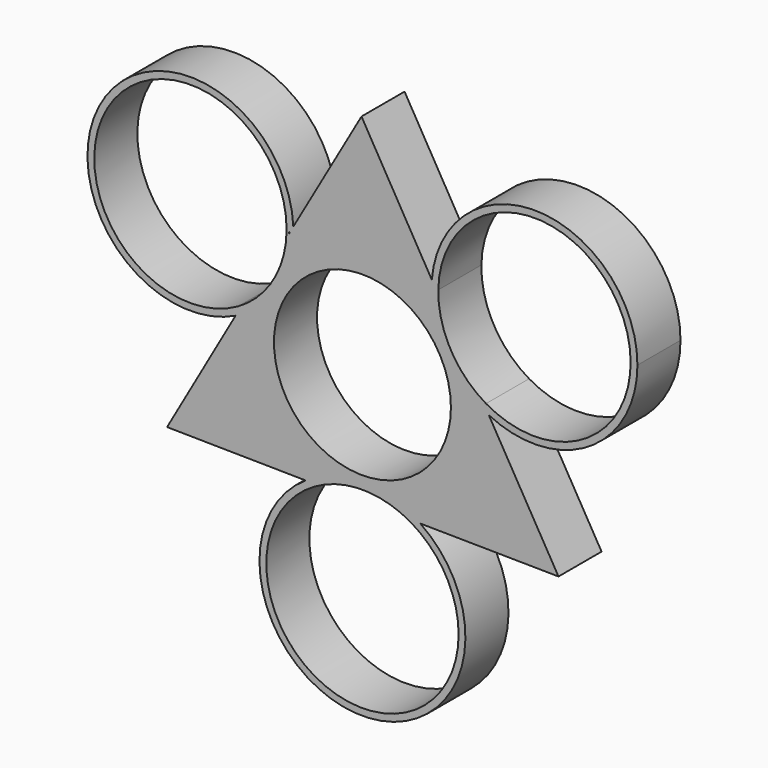
from build123d import *

# Parameters (mm, degrees)
F2_DEPTH = 7
F0_R     = 11.5
F3_DEPTH = 26.416


with BuildPart() as f2:
    # F1 (on Front) → F2 (new body)
    with BuildSketch(Plane.XZ):
        with BuildLine():
            ThreePointArc((-9.8594943471, 13.4371291696), (-9.8598798703, 13.3389562022), (-9.8610364161, 13.2407892906))
            Line((-9.8610364161, 13.2407892906), (-9.5237098666, 13.2354901845))
            Line((-9.5237098666, 13.2354901845), (-9.4420993874, 13.234208155))
            Line((-9.4420993874, 13.234208155), (-8.9874716534, 14.0291067183))
            ThreePointArc((-8.9874716534, 14.0291067183), (-33.8655402549, 20.2761595034), (-16.4893494105, 1.4078803666))
            Line((-16.4893494105, 1.4078803666), (-15.9845189072, 2.2945213217))
            Line((-15.9845189072, 2.2945213217), (-16.1520543214, 2.5873509079))
            ThreePointArc((-16.1520543214, 2.5873509079), (-33.1725189083, 19.7083730525), (-9.8594943471, 13.4371291696))
        make_face()
        with BuildLine():
            Line((-15.7125081445, 1.8190827434), (-15.9845189072, 2.2945213217))
            Line((-15.9845189072, 2.2945213217), (-16.4893494105, 1.4078803666))
            ThreePointArc((-16.4893494105, 1.4078803666), (-16.0975525686, 1.6071032397), (-15.7125081445, 1.8190827434))
        make_face()
        with BuildLine():
            Line((-8.9874716534, 14.0291067183), (-9.4420993874, 13.234208155))
            Line((-9.4420993874, 13.234208155), (-8.9760259484, 13.2268865476))
            ThreePointArc((-8.9760259484, 13.2268865476), (-8.974787508, 13.3320046163), (-8.9743746861, 13.4371291696))
            ThreePointArc((-8.9743746861, 13.4371291696), (-8.9776493285, 13.7331903747), (-8.9874716534, 14.0291067183))
        make_face()
        with BuildLine():
            Line((-6.6469862026, -14.026241978), (-15.7125081445, 1.8190827434))
            ThreePointArc((-15.7125081445, 1.8190827434), (-16.0975525686, 1.6071032397), (-16.4893494105, 1.4078803666))
            Line((-16.4893494105, 1.4078803666), (-25.3977489889, -14.2380678461))
            Line((-25.3977489889, -14.2380678461), (-7.3951647118, -14.4875430354))
            ThreePointArc((-7.3951647118, -14.4875430354), (-7.0248630052, -14.2507495292), (-6.6469862026, -14.026241978))
        make_face()
        with BuildLine():
            ThreePointArc((-8.9743746861, 13.4371291696), (-8.974787508, 13.3320046163), (-8.9760259484, 13.2268865476))
            Line((-8.9760259484, 13.2268865476), (8.9760259484, 12.9448754613))
            ThreePointArc((8.9760259484, 12.9448754613), (8.989763273, 13.3762864413), (9.0174033464, 13.8070301865))
            Line((9.0174033464, 13.8070301865), (-0.1233932709, 29.5275962356))
            Line((-0.1233932709, 29.5275962356), (-8.9874716534, 14.0291067183))
            ThreePointArc((-8.9874716534, 14.0291067183), (-8.9776493285, 13.7331903747), (-8.9743746861, 13.4371291696))
        make_face()
        with BuildLine():
            Line((-6.3749754398, -14.5016805563), (-6.6469862026, -14.026241978))
            ThreePointArc((-6.6469862026, -14.026241978), (-7.0248630052, -14.2507495292), (-7.3951647118, -14.4875430354))
            Line((-7.3951647118, -14.4875430354), (-6.3749754398, -14.5016805563))
        make_face()
        with BuildLine():
            ThreePointArc((9.0174033464, 13.8070301865), (8.989763273, 13.3762864413), (8.9760259484, 12.9448754613))
            Line((8.9760259484, 12.9448754613), (9.5237098666, 12.9362718244))
            Line((9.5237098666, 12.9362718244), (9.0174033464, 13.8070301865))
        make_face()
        with BuildLine():
            Line((-6.2074400257, -14.7945101426), (-6.3749754398, -14.5016805563))
            Line((-6.3749754398, -14.5016805563), (-7.3951647118, -14.4875430354))
            ThreePointArc((-7.3951647118, -14.4875430354), (-6.3315189236, -37.4372225794), (13.385119661, -25.6442884042))
            ThreePointArc((13.385119661, -25.6442884042), (11.825746284, -19.3742682156), (7.5109617661, -14.5651692295))
            Line((7.5109617661, -14.5651692295), (6.4622937408, -14.5520938009))
            Line((6.4622937408, -14.5520938009), (6.2924635872, -14.8435985187))
            ThreePointArc((6.2924635872, -14.8435985187), (10.8375687965, -19.415556384), (12.5, -25.6442884042))
            ThreePointArc((12.5, -25.6442884042), (-6.2712438829, -36.4573129654), (-6.2074400257, -14.7945101426))
        make_face()
        with BuildLine():
            ThreePointArc((7.5109617661, -14.5651692295), (7.1286450726, -14.3153940288), (6.7380302462, -14.0788062811))
            Line((6.7380302462, -14.0788062811), (6.4622937408, -14.5520938009))
            Line((6.4622937408, -14.5520938009), (7.5109617661, -14.5651692295))
        make_face()
        with BuildLine():
            Line((15.6214641009, 1.1691507162), (6.7380302462, -14.0788062811))
            ThreePointArc((6.7380302462, -14.0788062811), (7.1286450726, -14.3153940288), (7.5109617661, -14.5651692295))
            Line((7.5109617661, -14.5651692295), (25.4854150726, -14.7892856087))
            Line((25.4854150726, -14.7892856087), (16.4257602341, 0.7366235122))
            ThreePointArc((16.4257602341, 0.7366235122), (16.0199223632, 0.9460258224), (15.6214641009, 1.1691507162))
        make_face()
        with BuildLine():
            Line((9.0174033464, 13.8070301865), (9.5237098666, 12.9362718244))
            Line((9.5237098666, 12.9362718244), (9.8610364161, 12.9309727184))
            ThreePointArc((9.8610364161, 12.9309727184), (22.4576673144, 25.2342473162), (34.8594943471, 12.7346328394))
            ThreePointArc((34.8594943471, 12.7346328394), (28.5882263673, 1.8970640428), (16.0670307599, 1.9339429538))
            Line((16.0670307599, 1.9339429538), (15.8972006063, 1.642438236))
            Line((15.8972006063, 1.642438236), (16.4257602341, 0.7366235122))
            ThreePointArc((16.4257602341, 0.7366235122), (29.4212819112, 1.363943118), (35.7446140081, 12.7346328394))
            ThreePointArc((35.7446140081, 12.7346328394), (22.8961244654, 26.1089910092), (9.0174033464, 13.8070301865))
        make_face()
        with BuildLine():
            Line((15.8972006063, 1.642438236), (15.6214641009, 1.1691507162))
            ThreePointArc((15.6214641009, 1.1691507162), (16.0199223632, 0.9460258224), (16.4257602341, 0.7366235122))
            Line((16.4257602341, 0.7366235122), (15.8972006063, 1.642438236))
        make_face()
        with BuildLine():
            Line((-9.5237098666, 13.2354901845), (-9.8610364161, 13.2407892906))
            ThreePointArc((-9.8610364161, 13.2407892906), (-11.5960566093, 7.0811549669), (-16.1520543214, 2.5873509079))
            Line((-16.1520543214, 2.5873509079), (-15.9845189072, 2.2945213217))
            Line((-15.9845189072, 2.2945213217), (-15.7125081445, 1.8190827434))
            ThreePointArc((-15.7125081445, 1.8190827434), (-10.8339021804, 6.6310911483), (-8.9760259484, 13.2268865476))
            Line((-8.9760259484, 13.2268865476), (-9.4420993874, 13.234208155))
            Line((-9.4420993874, 13.234208155), (-9.5269323957, 13.0858810045))
            ThreePointArc((-9.5269323957, 13.0858810045), (-9.5251031319, 13.1606808989), (-9.5237098666, 13.2354901845))
        make_face()
        with BuildLine():
            ThreePointArc((6.7380302462, -14.0788062811), (0.0525643031, -12.2592719555), (-6.6469862026, -14.026241978))
            Line((-6.6469862026, -14.026241978), (-6.3749754398, -14.5016805563))
            Line((-6.3749754398, -14.5016805563), (-6.2074400257, -14.7945101426))
            ThreePointArc((-6.2074400257, -14.7945101426), (0.0490883761, -13.1443847914), (6.2924635872, -14.8435985187))
            Line((6.2924635872, -14.8435985187), (6.4622937408, -14.5520938009))
            Line((6.4622937408, -14.5520938009), (6.7380302462, -14.0788062811))
        make_face()
        with BuildLine():
            ThreePointArc((-8.9760259484, 13.2268865476), (-10.8339021804, 6.6310911483), (-15.7125081445, 1.8190827434))
            Line((-15.7125081445, 1.8190827434), (-6.6469862026, -14.026241978))
            ThreePointArc((-6.6469862026, -14.026241978), (0.0525643031, -12.2592719555), (6.7380302462, -14.0788062811))
            Line((6.7380302462, -14.0788062811), (15.6214641009, 1.1691507162))
            ThreePointArc((15.6214641009, 1.1691507162), (10.7024964382, 6.15619624), (8.9760259484, 12.9448754613))
            Line((8.9760259484, 12.9448754613), (-8.9760259484, 13.2268865476))
        make_face()
        with BuildLine():
            Line((9.5237098666, 12.9362718244), (8.9760259484, 12.9448754613))
            ThreePointArc((8.9760259484, 12.9448754613), (10.7024964382, 6.15619624), (15.6214641009, 1.1691507162))
            Line((15.6214641009, 1.1691507162), (15.8972006063, 1.642438236))
            Line((15.8972006063, 1.642438236), (16.0670307599, 1.9339429538))
            ThreePointArc((16.0670307599, 1.9339429538), (11.4733403529, 6.5912094278), (9.8610364161, 12.9309727184))
            Line((9.8610364161, 12.9309727184), (9.5237098666, 12.9362718244))
        make_face()
    extrude(amount=F2_DEPTH)

    # F0 (on Front) → F3 (cut)
    with BuildSketch(Plane.XZ):
        Circle(F0_R)
    extrude(amount=F3_DEPTH, mode=Mode.SUBTRACT)


solid = f2.part
